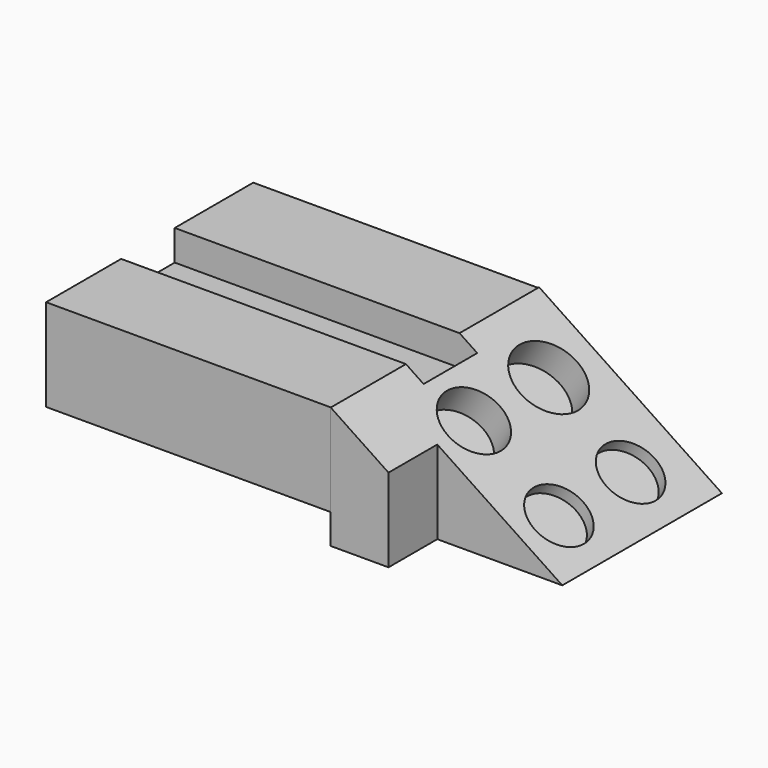
from build123d import *

# Parameters (mm, degrees)
F0_W      = 76.1575698853
F0_H      = 108.5386313498
F1_DEPTH  = 50.8
F3_DEPTH  = 118.872
F5_DEPTH  = 25.4
F6_R      = 12.5535289189
F7_DEPTH  = 5.08
F8_R      = 12.5680957502
F9_DEPTH  = 5.08
F10_R     = 13.425374539
F11_DEPTH = 12.7
F12_R     = 14.6312815901
F13_DEPTH = 12.7
F14_W     = 118.6601817608
F14_H     = 107.9017259181
F15_DEPTH = 50.8
F16_W     = 126.0260776617
F16_H     = 27.9104653746
F17_DEPTH = 12.7
F18_W     = 118.6601817608
F18_H     = 12.3918522149
F19_DEPTH = 143.764


with BuildPart() as f1:
    # F0 (on Top) → F1 (new body)
    with BuildSketch(Plane.XY):
        with Locations((38.0787849426, -12.8173213452)):
            Rectangle(F0_W, F0_H)
    extrude(amount=F1_DEPTH)

    # F2 (on face) → F3 (cut)
    with BuildSketch(Plane.XZ.offset(67.0866370201)):
        Polygon((76.1575698853, 50.8), (0, 50.8), (76.1575698853, 0), align=None)
    extrude(amount=-F3_DEPTH, mode=Mode.SUBTRACT)

    # F4 (on face) → F5 (cut)
    with BuildSketch(Plane.XZ.offset(67.0866370201)):
        Polygon((76.1575698853, 0), (24.0748073295, 34.7411864877), (24.0748073295, 0), align=None)
    extrude(amount=-F5_DEPTH, mode=Mode.SUBTRACT)

    # F6 (on face) → F7 (cut)
    with BuildSketch(Plane(origin=(23.4511739981, 0, 35.1571736743), x_dir=(0.8319076559, 0, -0.5549140943), z_dir=(0.5549140943, 0, 0.8319076559))):
        with Locations((42.292021215, -21.5434860438)):
            Circle(F6_R)
    extrude(amount=-F7_DEPTH, mode=Mode.SUBTRACT)

    # F8 (on face) → F9 (cut)
    with BuildSketch(Plane(origin=(23.4511739981, 0, 35.1571736743), x_dir=(0.8319076559, 0, -0.5549140943), z_dir=(0.5549140943, 0, 0.8319076559))):
        with Locations((41.7207404971, 16.4096038789)):
            Circle(F8_R)
    extrude(amount=-F9_DEPTH, mode=Mode.SUBTRACT)

    # F10 (on face) → F11 (cut)
    with BuildSketch(Plane(origin=(23.4511739981, 0, 35.1571736743), x_dir=(0.8319076559, 0, -0.5549140943), z_dir=(0.5549140943, 0, 0.8319076559))):
        with Locations((0, -21.8407977372)):
            Circle(F10_R)
    extrude(amount=-F11_DEPTH, mode=Mode.SUBTRACT)

    # F12 (on face) → F13 (cut)
    with BuildSketch(Plane(origin=(23.4511739981, 0, 35.1571736743), x_dir=(0.8319076559, 0, -0.5549140943), z_dir=(0.5549140943, 0, 0.8319076559))):
        with Locations((0, 17.1235315502)):
            Circle(F12_R)
    extrude(amount=-F13_DEPTH, mode=Mode.SUBTRACT)

    # F14 (on Top) → F15 (join)
    with BuildSketch(Plane.XY):
        with Locations((-59.3300908804, -13.0562540144)):
            Rectangle(F14_W, F14_H)
    extrude(amount=F15_DEPTH)

    # F16 (on face) → F17 (cut)
    with BuildSketch(Plane.XY.offset(50.8)):
        with Locations((-55.64714293, -13.9552326873)):
            Rectangle(F16_W, F16_H)
    extrude(amount=-F17_DEPTH, mode=Mode.SUBTRACT)

    # F18 (on face) → F19 (cut)
    with BuildSketch(Plane.XZ.offset(67.0071169734)):
        with Locations((-59.3300908804, 6.1959261075)):
            Rectangle(F18_W, F18_H)
    extrude(amount=-F19_DEPTH, mode=Mode.SUBTRACT)


solid = f1.part
